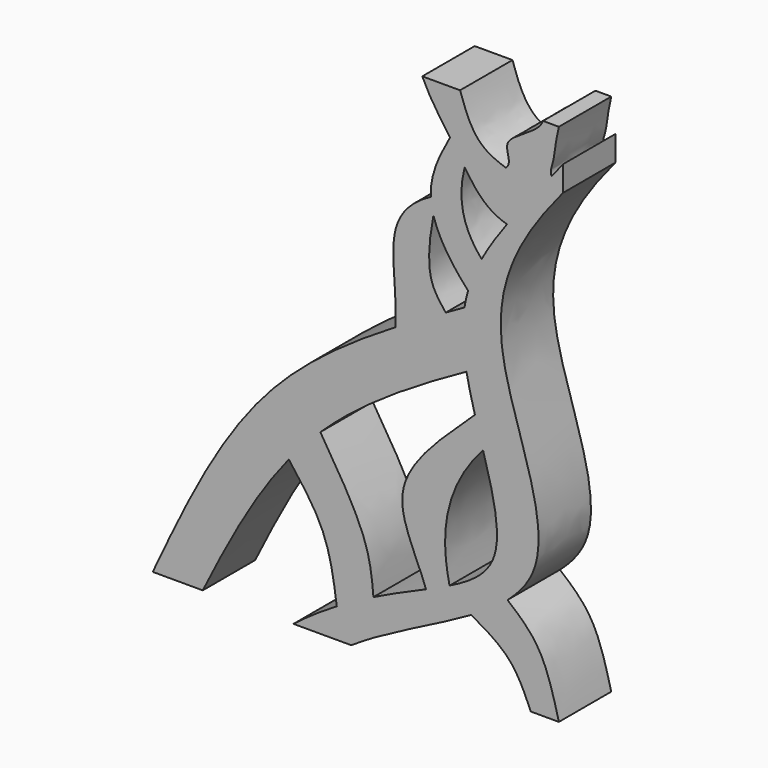
from build123d import *

# Parameters (mm, degrees)
F1_DEPTH = 50
F2_SCALE = 0.06


with BuildPart() as f1:
    # F0 (on Front) → F1 (new body)
    with BuildSketch(Plane.XZ):
        with BuildLine():
            add(Edge.make_bspline(
                [(33.7992499113, 32.4442463824), (-1.3140516, 11.1969938069), (-82.9509326157, -45.9527424638), (-125.9686970754, -137.606794731), (-151.571293213, -192.3071747745)],
                knots=[0.1650584684, 0.1650584684, 0.1650584684, 0.1650584684, 0.502312505, 1, 1, 1, 1], degree=3))
            Line((-151.571293213, -192.3071747745), (-113.3603453636, -192.3071747745))
            add(Edge.make_bspline(
                [(-47.6813485904, -82.8825103726), (-73.9418191046, -115.1830009143), (-94.0292507398, -153.2818472534), (-113.3603453636, -192.3071747745)],
                knots=[0.5680635842, 0.5680635842, 0.5680635842, 0.5680635842, 1, 1, 1, 1], degree=3))
            add(Edge.make_bspline(
                [(-23.5778673601, -56.7194873224), (-27.8845088808, -60.8451196614), (-36.1979815182, -69.3017688301), (-43.9455530092, -78.2874659017), (-47.6813485904, -82.8825103726)],
                knots=[0.44475387, 0.44475387, 0.44475387, 0.44475387, 0.5066166215, 0.5680635842, 0.5680635842, 0.5680635842, 0.5680635842], degree=3))
            add(Edge.make_bspline(
                [(87.9483139372, 20.1501727821), (45.3698576212, -3.4429156349), (7.3841483298, -27.0588126184), (-23.5778673601, -56.7194873224)],
                knots=[0, 0, 0, 0, 0.44475387, 0.44475387, 0.44475387, 0.44475387], degree=3))
            add(Edge.make_bspline(
                [(86.4029882629, 62.7652361886), (85.449929096, 56.9509946506), (84.4401796439, 43.3835035509), (86.3354202415, 28.6006214532), (87.9483139372, 20.1501727821)],
                knots=[0.2898066076, 0.2898066076, 0.2898066076, 0.2898066076, 0.3311800495, 0.3836336632, 0.3836336632, 0.3836336632, 0.3836336632], degree=3))
            add(Edge.make_bspline(
                [(86.4029882629, 62.7652361886), (81.640548889, 60.0876764663), (76.8798520499, 57.4104488306), (72.1303694176, 54.7249239917)],
                knots=[0, 0, 0, 0, 0.0443577779, 0.0443577779, 0.0443577779, 0.0443577779], degree=3))
            add(Edge.make_bspline(
                [(72.1303694176, 54.7249239917), (59.2066870205, 47.4174185697), (46.3660371976, 40.0484787401), (33.7992499113, 32.4442463824)],
                knots=[0.0443577779, 0.0443577779, 0.0443577779, 0.0443577779, 0.1650584684, 0.1650584684, 0.1650584684, 0.1650584684], degree=3))
        make_face()
        with BuildLine():
            add(Edge.make_bspline(
                [(-47.6813485904, -82.8825103726), (-37.6976178586, -95.8078145278), (-17.6570022581, -121.6548352785), (-13.2867608742, -153.7004230944), (-11.0641516952, -169.7119861588)],
                knots=[0, 0, 0, 0, 0.5013709336, 1, 1, 1, 1], degree=3))
            add(Edge.make_bspline(
                [(16.9321630542, -154.4396487608), (7.9475731058, -158.9016267331), (-1.4242642684, -163.9163277691), (-11.0641516952, -169.7119861588)],
                knots=[0.8987923644, 0.8987923644, 0.8987923644, 0.8987923644, 0.9466643403, 0.9466643403, 0.9466643403, 0.9466643403], degree=3))
            add(Edge.make_bspline(
                [(-23.5778673601, -56.7194873224), (-10.048506017, -78.2254081232), (13.3855203997, -115.4324178206), (15.8758483062, -142.8745703905), (16.9321630542, -154.4396487608)],
                knots=[0, 0, 0, 0, 0.5786754475, 1, 1, 1, 1], degree=3))
            add(Edge.make_bspline(
                [(-23.5778673601, -56.7194873224), (-27.8845088808, -60.8451196614), (-36.1979815182, -69.3017688301), (-43.9455530092, -78.2874659017), (-47.6813485904, -82.8825103726)],
                knots=[0.44475387, 0.44475387, 0.44475387, 0.44475387, 0.5066166215, 0.5680635842, 0.5680635842, 0.5680635842, 0.5680635842], degree=3))
        make_face()
        with BuildLine():
            Line((161.5726722864, 164.2289310694), (161.5726722864, 183.500433121))
            add(Edge.make_bspline(
                [(161.5726722864, 183.500433121), (158.6697561937, 179.7603709259), (155.7997051715, 176.1136274949), (152.9720624863, 172.5488397796)],
                knots=[0, 0, 0, 0, 0.0227975426, 0.0227975426, 0.0227975426, 0.0227975426], degree=3))
            add(Edge.make_bspline(
                [(152.9720624863, 172.5488397796), (149.5266021616, 168.2051740458), (146.144106472, 163.9831898515), (142.8418403639, 159.8623300408)],
                knots=[0.0227975426, 0.0227975426, 0.0227975426, 0.0227975426, 0.0505761686, 0.0505761686, 0.0505761686, 0.0505761686], degree=3))
            add(Edge.make_bspline(
                [(142.8418403639, 159.8623300408), (134.2230298354, 149.1070157325), (126.1507380473, 139.0405542113), (118.931917396, 129.2974610904)],
                knots=[0.0505761686, 0.0505761686, 0.0505761686, 0.0505761686, 0.1230775075, 0.1230775075, 0.1230775075, 0.1230775075], degree=3))
            add(Edge.make_bspline(
                [(118.931917396, 129.2974610904), (111.4275135493, 119.1689222297), (104.8454447873, 109.3898433661), (99.5305536728, 99.5496247644)],
                knots=[0.1230775075, 0.1230775075, 0.1230775075, 0.1230775075, 0.1984470661, 0.1984470661, 0.1984470661, 0.1984470661], degree=3))
            add(Edge.make_bspline(
                [(99.5305536728, 99.5496247644), (95.1743477908, 91.4843573429), (91.6694084315, 83.3780173754), (89.2056084764, 75.0045255924)],
                knots=[0.1984470661, 0.1984470661, 0.1984470661, 0.1984470661, 0.260221674, 0.260221674, 0.260221674, 0.260221674], degree=3))
            add(Edge.make_bspline(
                [(89.2056084764, 75.0045255924), (88.0256518483, 70.9943148164), (87.0844928908, 66.9228296031), (86.4029882629, 62.7652361886)],
                knots=[0.260221674, 0.260221674, 0.260221674, 0.260221674, 0.2898066076, 0.2898066076, 0.2898066076, 0.2898066076], degree=3))
            add(Edge.make_bspline(
                [(86.4029882629, 62.7652361886), (85.449929096, 56.9509946506), (84.4401796439, 43.3835035509), (86.3354202415, 28.6006214532), (87.9483139372, 20.1501727821)],
                knots=[0.2898066076, 0.2898066076, 0.2898066076, 0.2898066076, 0.3311800495, 0.3836336632, 0.3836336632, 0.3836336632, 0.3836336632], degree=3))
            add(Edge.make_bspline(
                [(87.9483139372, 20.1501727821), (89.6334036756, 11.3214667244), (91.9225091752, 2.2895818916), (94.4113235468, -6.7245809888)],
                knots=[0.3836336632, 0.3836336632, 0.3836336632, 0.3836336632, 0.4384351956, 0.4384351956, 0.4384351956, 0.4384351956], degree=3))
            add(Edge.make_bspline(
                [(94.4113235468, -6.7245809888), (96.4305537515, -14.0379709171), (98.5812410463, -21.3396954834), (100.6474662993, -28.5117831797)],
                knots=[0.4384351956, 0.4384351956, 0.4384351956, 0.4384351956, 0.4828968922, 0.4828968922, 0.4828968922, 0.4828968922], degree=3))
            add(Edge.make_bspline(
                [(100.6474662993, -28.5117831797), (108.2301787006, -54.8321847135), (119.9469648226, -99.5063533785), (92.6369226658, -119.1415299059), (75.0321073118, -127.8520125935)],
                knots=[0.4828968922, 0.4828968922, 0.4828968922, 0.4828968922, 0.6460641257, 0.7795199626, 0.7795199626, 0.7795199626, 0.7795199626], degree=3))
            add(Edge.make_bspline(
                [(75.0321073118, -127.8520125935), (69.5360042843, -130.5713657539), (63.5216279141, -133.2786604033), (57.0675570237, -136.1243560803)],
                knots=[0.7795199626, 0.7795199626, 0.7795199626, 0.7795199626, 0.8211839627, 0.8211839627, 0.8211839627, 0.8211839627], degree=3))
            add(Edge.make_bspline(
                [(57.0675570237, -136.1243560803), (45.045424625, -141.4250927436), (31.4976714177, -147.2060434603), (16.9321630542, -154.4396487608)],
                knots=[0.8211839627, 0.8211839627, 0.8211839627, 0.8211839627, 0.8987923644, 0.8987923644, 0.8987923644, 0.8987923644], degree=3))
            add(Edge.make_bspline(
                [(16.9321630542, -154.4396487608), (7.9475731058, -158.9016267331), (-1.4242642684, -163.9163277691), (-11.0641516952, -169.7119861588)],
                knots=[0.8987923644, 0.8987923644, 0.8987923644, 0.8987923644, 0.9466643403, 0.9466643403, 0.9466643403, 0.9466643403], degree=3))
            add(Edge.make_bspline(
                [(-11.0641516952, -169.7119861588), (-21.8042505923, -176.1691097249), (-32.877076864, -183.5956264599), (-44.1177855636, -192.3071747745)],
                knots=[0.9466643403, 0.9466643403, 0.9466643403, 0.9466643403, 1, 1, 1, 1], degree=3))
            Line((-44.1177855636, -192.3071747745), (0, -192.3071747745))
            add(Edge.make_bspline(
                [(91.6558492517, -142.1554952409), (63.5808744263, -158.4654974972), (28.6929657416, -173.0898848198), (0, -192.3071747745)],
                knots=[0.8011074852, 0.8011074852, 0.8011074852, 0.8011074852, 1, 1, 1, 1], degree=3))
            add(Edge.make_bspline(
                [(119.3154431729, -123.0815035944), (111.4612420038, -129.8801116218), (102.0230483979, -136.1327279003), (91.6558492517, -142.1554952409)],
                knots=[0.7276627779, 0.7276627779, 0.7276627779, 0.7276627779, 0.8011074852, 0.8011074852, 0.8011074852, 0.8011074852], degree=3))
            add(Edge.make_bspline(
                [(161.5726722864, 164.2289310694), (127.9283165879, 123.741138071), (90.0243038422, 52.1079771624), (162.5005260377, -72.9909762919), (128.5067292283, -115.1255129324), (119.3154431729, -123.0815035944)],
                knots=[0, 0, 0, 0, 0.3115903654, 0.6417149775, 0.7276627779, 0.7276627779, 0.7276627779, 0.7276627779], degree=3))
        make_face()
        with BuildLine():
            add(Edge.make_bspline(
                [(119.3154431729, -123.0815035944), (127.8271004026, -130.229203514), (146.5347439848, -145.9824570753), (154.2952784291, -176.0164611644), (158.504858613, -192.3071747745)],
                knots=[0, 0, 0, 0, 0.4583695956, 1, 1, 1, 1], degree=3))
            add(Edge.make_bspline(
                [(119.3154431729, -123.0815035944), (111.4612420038, -129.8801116218), (102.0230483979, -136.1327279003), (91.6558492517, -142.1554952409)],
                knots=[0.7276627779, 0.7276627779, 0.7276627779, 0.7276627779, 0.8011074852, 0.8011074852, 0.8011074852, 0.8011074852], degree=3))
            add(Edge.make_bspline(
                [(91.6558492517, -142.1554952409), (102.2562480915, -148.266180717), (123.0818131064, -159.961158959), (132.4458816607, -181.5720975488), (137.090831995, -192.3071747745)],
                knots=[0, 0, 0, 0, 0.5038335041, 1, 1, 1, 1], degree=3))
            Line((137.090831995, -192.3071747745), (158.504858613, -192.3071747745))
        make_face()
        with BuildLine():
            add(Edge.make_bspline(
                [(94.4113235468, -6.7245809888), (96.4305537515, -14.0379709171), (98.5812410463, -21.3396954834), (100.6474662993, -28.5117831797)],
                knots=[0.4384351956, 0.4384351956, 0.4384351956, 0.4384351956, 0.4828968922, 0.4828968922, 0.4828968922, 0.4828968922], degree=3))
            add(Edge.make_bspline(
                [(94.4113235468, -6.7245809888), (69.8929498645, -30.0484086542), (20.7095259404, -72.3808334135), (49.418452744, -114.6003239541), (57.0675570237, -136.1243560803)],
                knots=[0, 0, 0, 0, 0.5429128164, 1, 1, 1, 1], degree=3))
            add(Edge.make_bspline(
                [(75.0321073118, -127.8520125935), (69.5360042843, -130.5713657539), (63.5216279141, -133.2786604033), (57.0675570237, -136.1243560803)],
                knots=[0.7795199626, 0.7795199626, 0.7795199626, 0.7795199626, 0.8211839627, 0.8211839627, 0.8211839627, 0.8211839627], degree=3))
            add(Edge.make_bspline(
                [(100.6474662993, -28.5117831797), (85.276066462, -45.5253793732), (69.9269817684, -77.6031695274), (71.0284103415, -109.5876994667), (75.0321073118, -127.8520125935)],
                knots=[0, 0, 0, 0, 0.5186390985, 1, 1, 1, 1], degree=3))
        make_face()
        with BuildLine():
            add(Edge.make_bspline(
                [(60.7451200485, 128.8491934538), (60.921887229, 124.9463354687), (61.6026617993, 120.996224136), (62.7479620056, 117.0065256713)],
                knots=[0.4677213645, 0.4677213645, 0.4677213645, 0.4677213645, 0.588178468, 0.588178468, 0.588178468, 0.588178468], degree=3))
            add(Edge.make_bspline(
                [(60.7451200485, 128.8491934538), (48.2160558796, 122.1916522311), (31.5425676347, 105.5782576293), (31.9310774144, 71.145822202), (34.5967065269, 43.9006996814), (33.7992499113, 32.4442463824)],
                knots=[0, 0, 0, 0, 0.333000285, 0.6525505547, 1, 1, 1, 1], degree=3))
            add(Edge.make_bspline(
                [(72.1303694176, 54.7249239917), (59.2066870205, 47.4174185697), (46.3660371976, 40.0484787401), (33.7992499113, 32.4442463824)],
                knots=[0.0443577779, 0.0443577779, 0.0443577779, 0.0443577779, 0.1650584684, 0.1650584684, 0.1650584684, 0.1650584684], degree=3))
            add(Edge.make_bspline(
                [(62.7479620056, 117.0065256713), (59.6024443223, 101.0625210628), (57.2426052815, 73.9770761074), (66.5558771435, 61.7781009903), (72.1303694176, 54.7249239917)],
                knots=[0, 0, 0, 0, 0.5746630446, 1, 1, 1, 1], degree=3))
        make_face()
        with BuildLine():
            add(Edge.make_bspline(
                [(75.4271748481, 173.5246273106), (77.3752720663, 170.7812263834), (81.134719612, 165.4233111741), (84.7614654199, 159.7675420119), (86.5594399231, 157.0506042409)],
                knots=[0.3943758085, 0.3943758085, 0.3943758085, 0.3943758085, 0.4949279004, 0.5888141141, 0.5888141141, 0.5888141141, 0.5888141141], degree=3))
            add(Edge.make_bspline(
                [(75.4271748481, 173.5246273106), (66.9712117374, 158.4454793727), (60.0587529981, 144.0035513846), (60.7451200485, 128.8491934538)],
                knots=[0, 0, 0, 0, 0.4677213645, 0.4677213645, 0.4677213645, 0.4677213645], degree=3))
            add(Edge.make_bspline(
                [(60.7451200485, 128.8491934538), (60.921887229, 124.9463354687), (61.6026617993, 120.996224136), (62.7479620056, 117.0065256713)],
                knots=[0.4677213645, 0.4677213645, 0.4677213645, 0.4677213645, 0.588178468, 0.588178468, 0.588178468, 0.588178468], degree=3))
            add(Edge.make_bspline(
                [(62.7479620056, 117.0065256713), (66.6635408444, 103.3664522692), (76.0086586492, 89.2636705474), (89.2056084764, 75.0045255924)],
                knots=[0.588178468, 0.588178468, 0.588178468, 0.588178468, 1, 1, 1, 1], degree=3))
            add(Edge.make_bspline(
                [(99.5305536728, 99.5496247644), (95.1743477908, 91.4843573429), (91.6694084315, 83.3780173754), (89.2056084764, 75.0045255924)],
                knots=[0.1984470661, 0.1984470661, 0.1984470661, 0.1984470661, 0.260221674, 0.260221674, 0.260221674, 0.260221674], degree=3))
            add(Edge.make_bspline(
                [(86.5594399231, 157.0506042409), (83.9878015469, 147.0462299724), (82.836579489, 127.8427234548), (90.6243055451, 109.9335235527), (99.5305536728, 99.5496247644)],
                knots=[0, 0, 0, 0, 0.4816112661, 1, 1, 1, 1], degree=3))
        make_face()
        with BuildLine():
            add(Edge.make_bspline(
                [(83.0902010202, 207.6928252255), (87.110088997, 195.8396449748), (93.5872758475, 177.0872799999), (110.8460810758, 169.3792962525), (118.0063178545, 167.0171113404)],
                knots=[0, 0, 0, 0, 0.4677504063, 0.7294986849, 0.7294986849, 0.7294986849, 0.7294986849], degree=3))
            Line((83.0902010202, 207.6928252255), (54.227810353, 207.6928252255))
            add(Edge.make_bspline(
                [(54.227810353, 207.6928252255), (60.0854175021, 194.6229659864), (67.7865340514, 184.2845323351), (75.4271748481, 173.5246273106)],
                knots=[0, 0, 0, 0, 0.3943758085, 0.3943758085, 0.3943758085, 0.3943758085], degree=3))
            add(Edge.make_bspline(
                [(75.4271748481, 173.5246273106), (77.3752720663, 170.7812263834), (81.134719612, 165.4233111741), (84.7614654199, 159.7675420119), (86.5594399231, 157.0506042409)],
                knots=[0.3943758085, 0.3943758085, 0.3943758085, 0.3943758085, 0.4949279004, 0.5888141141, 0.5888141141, 0.5888141141, 0.5888141141], degree=3))
            add(Edge.make_bspline(
                [(86.5594399231, 157.0506042409), (94.3573639982, 145.2670809389), (103.0350172008, 133.7468834117), (118.931917396, 129.2974610904)],
                knots=[0.5888141141, 0.5888141141, 0.5888141141, 0.5888141141, 0.9960042969, 0.9960042969, 0.9960042969, 0.9960042969], degree=3))
            add(Edge.make_bspline(
                [(142.8418403639, 159.8623300408), (134.2230298354, 149.1070157325), (126.1507380473, 139.0405542113), (118.931917396, 129.2974610904)],
                knots=[0.0505761686, 0.0505761686, 0.0505761686, 0.0505761686, 0.1230775075, 0.1230775075, 0.1230775075, 0.1230775075], degree=3))
            add(Edge.make_bspline(
                [(118.0063178545, 167.0171113404), (125.4059977095, 164.5759333951), (133.8391586431, 162.5656756814), (142.8418403639, 159.8623300408)],
                knots=[0.7294986849, 0.7294986849, 0.7294986849, 0.7294986849, 1, 1, 1, 1], degree=3))
        make_face()
        with BuildLine():
            add(Edge.make_bspline(
                [(158.504858613, 207.6928252255), (155.8710665844, 197.6334981347), (155.1200926152, 181.8258093222), (151.6002153146, 176.3836793356), (152.9720624863, 172.5488397796)],
                knots=[0, 0, 0, 0, 0.625221571, 1, 1, 1, 1], degree=3))
            Line((158.504858613, 207.6928252255), (146.4012861252, 207.6928252255))
            add(Edge.make_bspline(
                [(146.4012861252, 207.6928252255), (143.1155545876, 197.7078282598), (108.3076436448, 187.9302668709), (123.4952842004, 171.6174236455), (118.0063178545, 167.0171113404)],
                knots=[0, 0, 0, 0, 0.5941954131, 1, 1, 1, 1], degree=3))
            add(Edge.make_bspline(
                [(118.0063178545, 167.0171113404), (125.4059977095, 164.5759333951), (133.8391586431, 162.5656756814), (142.8418403639, 159.8623300408)],
                knots=[0.7294986849, 0.7294986849, 0.7294986849, 0.7294986849, 1, 1, 1, 1], degree=3))
            add(Edge.make_bspline(
                [(152.9720624863, 172.5488397796), (149.5266021616, 168.2051740458), (146.144106472, 163.9831898515), (142.8418403639, 159.8623300408)],
                knots=[0.0227975426, 0.0227975426, 0.0227975426, 0.0227975426, 0.0505761686, 0.0505761686, 0.0505761686, 0.0505761686], degree=3))
        make_face()
    extrude(amount=F1_DEPTH)


with BuildPart() as f1_1:
    # F2: moved
    add(f1.part.scale(F2_SCALE))


solid = f1_1.part
